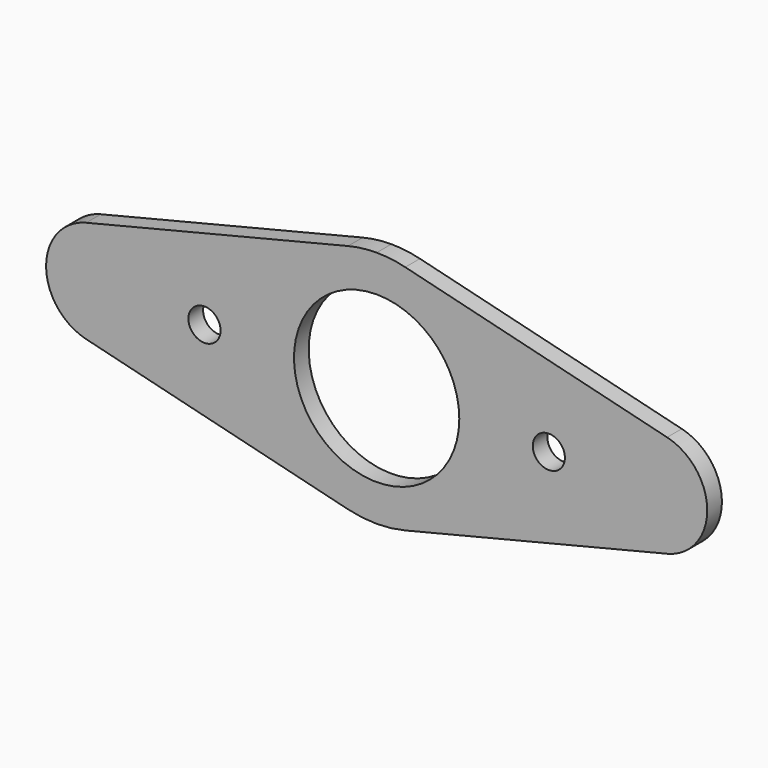
from build123d import *

# Parameters (mm, degrees)
F0_R     = 5.55625
F1_DEPTH = 6.35


with BuildPart() as f1:
    # F0 (on Front) → F1 (new body)
    with BuildSketch(Plane.XZ):
        with BuildLine():
            ThreePointArc((9.890924, 38.017616), (4.981184, 38.918746), (-0.001432, 39.220595))
            ThreePointArc((-0.001432, 39.220595), (-4.984048, 38.918746), (-9.893787, 38.017616))
            Line((-9.893787, 38.017616), (-100.420647, 15.669758))
            ThreePointArc((-100.420647, 15.669758), (-114.301432, -2.054405), (-100.420647, -19.778569))
            Line((-100.420647, -19.778569), (-9.893787, -42.126427))
            ThreePointArc((-9.893787, -42.126427), (-0.001769, -43.329405), (9.89027, -42.126589))
            Line((9.89027, -42.126589), (100.423844, -19.77864))
            ThreePointArc((100.423844, -19.77864), (114.304918, -2.054405), (100.423844, 15.669829))
            Line((100.423844, 15.669829), (9.890924, 38.017616))
        make_face()
        with BuildLine():
            ThreePointArc((-65.088932, -2.054405), (-59.532682, 3.501845), (-53.976432, -2.054405))
            ThreePointArc((-53.976432, -2.054405), (-59.532682, -7.610655), (-65.088932, -2.054405))
        make_face(mode=Mode.SUBTRACT)
        with BuildLine():
            ThreePointArc((-0.001432, 26.520595), (20.204145, 18.151171), (28.573568, -2.054405))
            ThreePointArc((28.573568, -2.054405), (-20.207008, -22.259982), (-0.001432, 26.520595))
        make_face(mode=Mode.SUBTRACT)
        with Locations((59.536168, -2.054405)):
            Circle(F0_R, mode=Mode.SUBTRACT)
    extrude(amount=F1_DEPTH)


solid = f1.part
